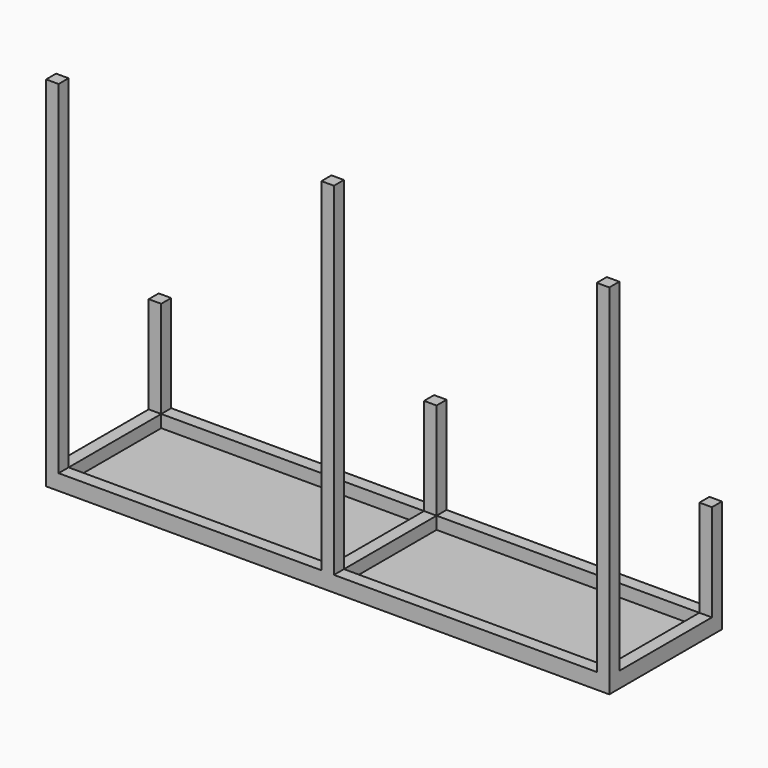
from build123d import *

# Parameters (mm, degrees)
F0_W      = 1800
F0_H      = 450
F1_DEPTH  = 10
F2_W      = 40
F2_H      = 450
F3_DEPTH  = 40
F4_W      = 40
F4_H      = 450
F5_DEPTH  = 40
F6_W      = 40
F6_H      = 370
F7_DEPTH  = 40
F8_W      = 1720
F8_H      = 40
F9_DEPTH  = 40
F10_W     = 1720
F10_H     = 40
F11_DEPTH = 40
F12_W     = 40
F12_H     = 40
F13_DEPTH = 1095
F14_W     = 40
F14_H     = 40
F15_DEPTH = 1095
F16_W     = 40
F16_H     = 40
F17_DEPTH = 1095
F18_W     = 40
F18_H     = 40
F19_DEPTH = 310
F20_W     = 40
F20_H     = 40
F21_DEPTH = 310
F22_W     = 40
F22_H     = 40
F23_DEPTH = 310


with BuildPart() as f1:
    # F0 (on Top) → F1 (new body)
    with BuildSketch(Plane.XY):
        Rectangle(F0_W, F0_H)
    extrude(amount=F1_DEPTH)

    # F2 (on face) → F3 (join)
    with BuildSketch(Plane.XY.offset(10)):
        with Locations((-880, 0)):
            Rectangle(F2_W, F2_H)
    extrude(amount=F3_DEPTH)

    # F4 (on face) → F5 (join)
    with BuildSketch(Plane.XY.offset(10)):
        with Locations((880, 0)):
            Rectangle(F4_W, F4_H)
    extrude(amount=F5_DEPTH)

    # F6 (on face) → F7 (join)
    with BuildSketch(Plane.XY.offset(10)):
        Rectangle(F6_W, F6_H)
    extrude(amount=F7_DEPTH)

    # F8 (on face) → F9 (join)
    with BuildSketch(Plane.XY.offset(10)):
        with Locations((0, -205)):
            Rectangle(F8_W, F8_H)
    extrude(amount=F9_DEPTH)

    # F10 (on face) → F11 (join)
    with BuildSketch(Plane.XY.offset(10)):
        with Locations((0, 205)):
            Rectangle(F10_W, F10_H)
    extrude(amount=F11_DEPTH)

    # F12 (on face) → F13 (join)
    with BuildSketch(Plane.XY.offset(50)):
        with Locations((-880, -205)):
            Rectangle(F12_W, F12_H)
    extrude(amount=F13_DEPTH)

    # F14 (on face) → F15 (join)
    with BuildSketch(Plane.XY.offset(50)):
        with Locations((0, -205)):
            Rectangle(F14_W, F14_H)
    extrude(amount=F15_DEPTH)

    # F16 (on face) → F17 (join)
    with BuildSketch(Plane.XY.offset(50)):
        with Locations((880, -205)):
            Rectangle(F16_W, F16_H)
    extrude(amount=F17_DEPTH)

    # F18 (on face) → F19 (join)
    with BuildSketch(Plane.XY.offset(50)):
        with Locations((-880, 205)):
            Rectangle(F18_W, F18_H)
    extrude(amount=F19_DEPTH)

    # F20 (on face) → F21 (join)
    with BuildSketch(Plane.XY.offset(50)):
        with Locations((0, 205)):
            Rectangle(F20_W, F20_H)
    extrude(amount=F21_DEPTH)

    # F22 (on face) → F23 (join)
    with BuildSketch(Plane.XY.offset(50)):
        with Locations((880, 205)):
            Rectangle(F22_W, F22_H)
    extrude(amount=F23_DEPTH)


solid = f1.part
